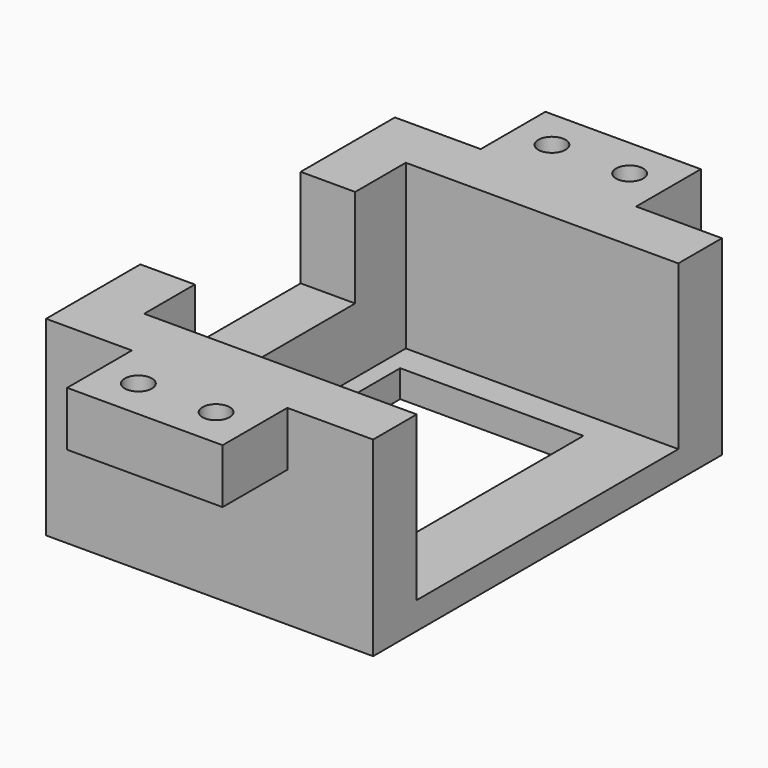
from build123d import *

# Parameters (mm, degrees)
F1_DEPTH       = 35
F2_DEPTH       = 5
F3_W           = 33.611692
F3_H           = 49.436976
F4_DEPTH       = 25
F5_W           = 28.51793
F5_H           = 14.842174
F6_DEPTH       = 10
F9_D           = 5
F9_CSINK_D     = 12.1
F9_CSINK_ANGLE = 90
F10_W          = 36.775354
F10_H          = 36.023068
F11_DEPTH      = 25


with BuildPart() as f1:
    # F0 (on Top) → F1 (new body)
    with BuildSketch(Plane.XY):
        Polygon((-20, 30), (20, 30), (30, 30), (30, 40), (-30, 40), (-30, -40), (30, -40), (30, -30), (20, -30), (-20, -30), align=None)
    extrude(amount=F1_DEPTH)

    # F0 (on Top) → F2 (join)
    with BuildSketch(Plane.XY):
        Polygon((30, 30), (20, 30), (-20, 30), (-20, -30), (20, -30), (30, -30), align=None)
    extrude(amount=F2_DEPTH)

    # F3 (on face) → F4 (cut)
    with BuildSketch(Plane.XY.offset(5)):
        Rectangle(F3_W, F3_H)
    extrude(amount=-F4_DEPTH, mode=Mode.SUBTRACT)

    # F5 (on face) → F6 (join)
    with BuildSketch(Plane.XY.offset(35)):
        with Locations((0, -47.421087)):
            Rectangle(F5_W, F5_H)
        with Locations((0, 47.421087)):
            Rectangle(F5_W, F5_H)
    extrude(amount=-F6_DEPTH)

    # F9 (through all)
    with Locations(Plane(origin=(0, 0, 25), x_dir=(1, 0, 0), z_dir=(0, 0, -1))):
        with Locations((7.129482, 47.421087), (-7.129482, 47.421087), (-7.129482, -47.421087), (7.129482, -47.421087)):
            CounterSinkHole(F9_D / 2, F9_CSINK_D / 2, counter_sink_angle=F9_CSINK_ANGLE)

    # F10 (on face) → F11 (cut)
    with BuildSketch(Plane(origin=(-30, 0, 0), x_dir=(0, -1, 0), z_dir=(-1, 0, 0))):
        with Locations((0, 35)):
            Rectangle(F10_W, F10_H)
    extrude(amount=-F11_DEPTH, mode=Mode.SUBTRACT)


solid = f1.part
